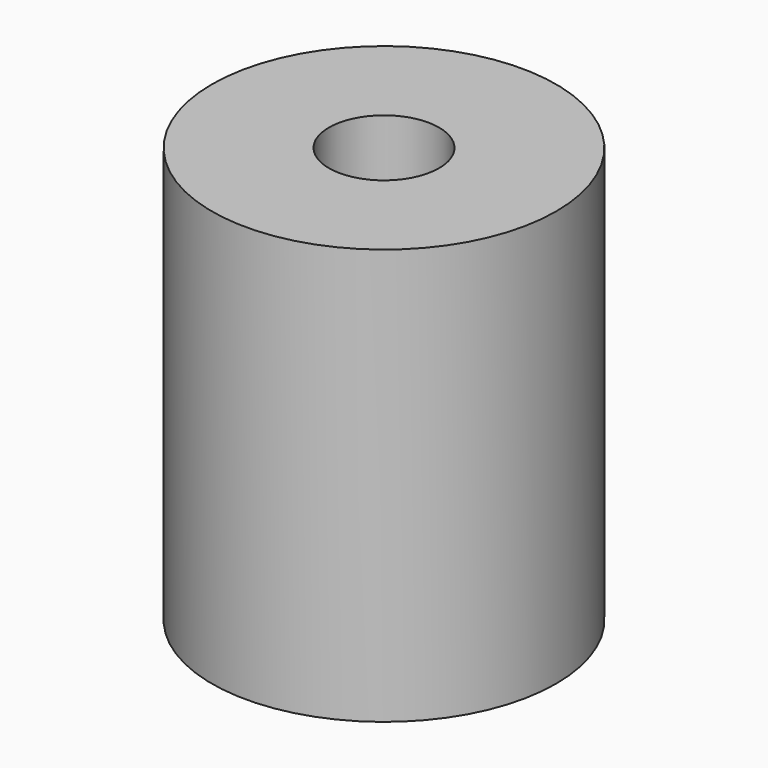
from build123d import *

# Parameters (mm, degrees)
SKETCH_R   = 12.5
SKETCH_R_2 = 4
PAD_DEPTH  = 30.2


with BuildPart() as part:
    # Sketch → Pad (new body)
    with BuildSketch(Plane.XY):
        Circle(SKETCH_R)
        Circle(SKETCH_R_2, mode=Mode.SUBTRACT)
    extrude(amount=PAD_DEPTH)


solid = part.part
